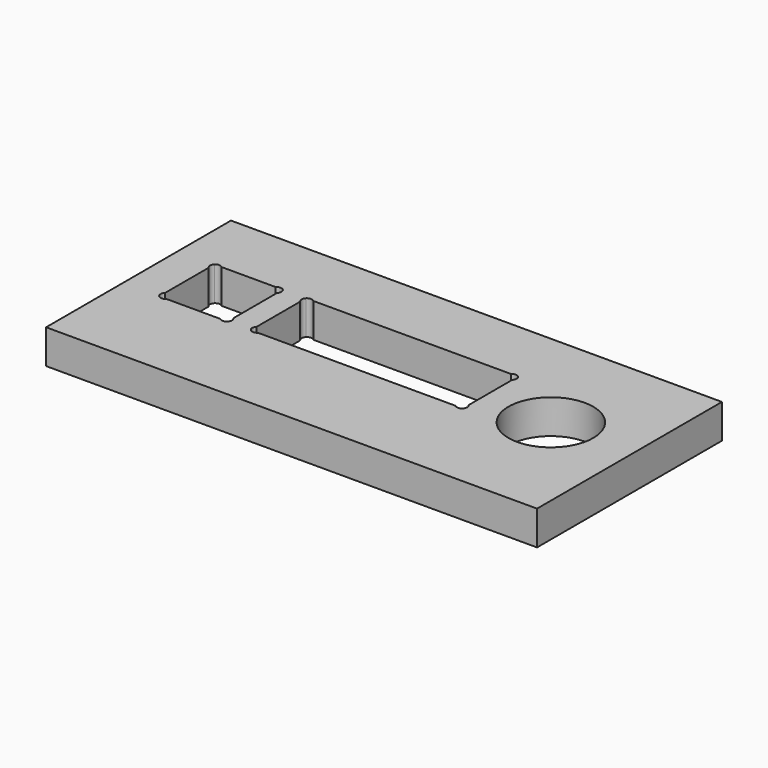
from build123d import *

# Parameters (mm, degrees)
F0_W     = 71.8
F0_H     = 33.8
F0_R     = 6.2
F1_DEPTH = 5


with BuildPart() as f1:
    # F0 (on Top) → F1 (new body)
    with BuildSketch(Plane.XY):
        Rectangle(F0_W, F0_H)
        with BuildLine():
            ThreePointArc((-30.6, 6.18934), (-30.81967, 6.71967), (-30.6, 7.25))
            ThreePointArc((-30.6, 7.25), (-30.06967, 7.46967), (-29.53934, 7.25))
            Line((-29.53934, 7.25), (-21.66066, 7.25))
            ThreePointArc((-21.66066, 7.25), (-21.13033, 7.46967), (-20.6, 7.25))
            ThreePointArc((-20.6, 7.25), (-20.43742, 7.006682), (-20.38033, 6.71967))
            ThreePointArc((-20.38033, 6.71967), (-20.43742, 6.432657), (-20.6, 6.18934))
            Line((-20.6, 6.18934), (-20.6, -1.78934))
            ThreePointArc((-20.6, -1.78934), (-20.43742, -2.032657), (-20.38033, -2.31967))
            ThreePointArc((-20.38033, -2.31967), (-20.43742, -2.606682), (-20.6, -2.85))
            ThreePointArc((-20.6, -2.85), (-21.13033, -3.06967), (-21.66066, -2.85))
            Line((-21.66066, -2.85), (-29.53934, -2.85))
            ThreePointArc((-29.53934, -2.85), (-30.06967, -3.06967), (-30.6, -2.85))
            ThreePointArc((-30.6, -2.85), (-30.81967, -2.31967), (-30.6, -1.78934))
            Line((-30.6, -1.78934), (-30.6, 6.18934))
        make_face(mode=Mode.SUBTRACT)
        with BuildLine():
            ThreePointArc((-17.2, 6.18934), (-17.41967, 6.71967), (-17.2, 7.25))
            ThreePointArc((-17.2, 7.25), (-16.66967, 7.46967), (-16.13934, 7.25))
            Line((-16.13934, 7.25), (12.73934, 7.25))
            ThreePointArc((12.73934, 7.25), (13.26967, 7.46967), (13.8, 7.25))
            ThreePointArc((13.8, 7.25), (13.96258, 7.006682), (14.01967, 6.71967))
            ThreePointArc((14.01967, 6.71967), (13.96258, 6.432657), (13.8, 6.18934))
            Line((13.8, 6.18934), (13.8, -1.78934))
            ThreePointArc((13.8, -1.78934), (13.96258, -2.032657), (14.01967, -2.31967))
            ThreePointArc((14.01967, -2.31967), (13.96258, -2.606682), (13.8, -2.85))
            ThreePointArc((13.8, -2.85), (13.26967, -3.06967), (12.73934, -2.85))
            Line((12.73934, -2.85), (-16.13934, -2.85))
            ThreePointArc((-16.13934, -2.85), (-16.66967, -3.06967), (-17.2, -2.85))
            ThreePointArc((-17.2, -2.85), (-17.41967, -2.31967), (-17.2, -1.78934))
            Line((-17.2, -1.78934), (-17.2, 6.18934))
        make_face(mode=Mode.SUBTRACT)
        with Locations((23.8, 0.75)):
            Circle(F0_R, mode=Mode.SUBTRACT)
    extrude(amount=F1_DEPTH)


solid = f1.part
